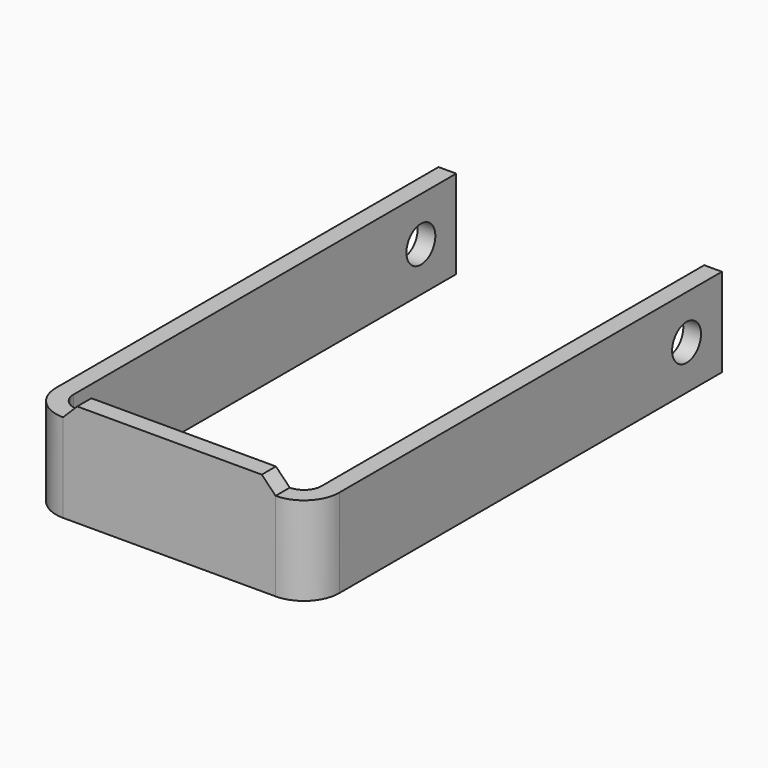
from build123d import *

# Parameters (mm, degrees)
F0_W     = 38.1
F0_H     = 3.175
F1_DEPTH = 15.875
F2_W     = 38.1
F2_H     = 3.175
F3_DEPTH = 2.54
F5_DEPTH = 25.4
F6_R     = 3.2385
F7_DEPTH = 101.6


with BuildPart() as f1:
    # F0 (on Top) → F1 (new body)
    with BuildSketch(Plane.XY):
        with BuildLine():
            Line((-43.00682, 50.395912), (-46.18182, 50.395912))
            Line((-46.18182, 50.395912), (-46.18182, -35.329088))
            ThreePointArc((-46.18182, -35.329088), (-44.321948, -39.819216), (-39.83182, -41.679088))
            Line((-39.83182, -41.679088), (-39.83182, -38.504088))
            ThreePointArc((-39.83182, -38.504088), (-42.076884, -37.574152), (-43.00682, -35.329088))
            Line((-43.00682, -35.329088), (-43.00682, 50.395912))
        make_face()
        with Locations((-20.78182, -40.091588)):
            Rectangle(F0_W, F0_H)
        with BuildLine():
            Line((-1.73182, -38.504088), (-1.73182, -41.679088))
            ThreePointArc((-1.73182, -41.679088), (2.758308, -39.819216), (4.61818, -35.329088))
            Line((4.61818, -35.329088), (4.61818, 50.395912))
            Line((4.61818, 50.395912), (1.44318, 50.395912))
            Line((1.44318, 50.395912), (1.44318, -35.329088))
            ThreePointArc((1.44318, -35.329088), (0.513244, -37.574152), (-1.73182, -38.504088))
        make_face()
    extrude(amount=F1_DEPTH)

    # F2 (on face) → F3 (join)
    with BuildSketch(Plane.XY.offset(15.875)):
        with Locations((-20.78182, -40.091588)):
            Rectangle(F2_W, F2_H)
    extrude(amount=F3_DEPTH)

    # F4 (on face) → F5 (cut)
    with BuildSketch(Plane.XZ.offset(41.679088)):
        Polygon((-39.83182, 18.415), (-39.83182, 15.875), (-37.29182, 18.415), align=None)
        Polygon((-1.73182, 18.415), (-4.207504, 18.415), (-1.73182, 15.875), align=None)
    extrude(amount=-F5_DEPTH, mode=Mode.SUBTRACT)

    # F6 (on face) → F7 (cut)
    with BuildSketch(Plane(origin=(-46.18182, 0, 0), x_dir=(0, -1, 0), z_dir=(-1, 0, 0))):
        with Locations((-42.471112, 7.9502)):
            Circle(F6_R)
    extrude(amount=-F7_DEPTH, mode=Mode.SUBTRACT)


solid = f1.part
